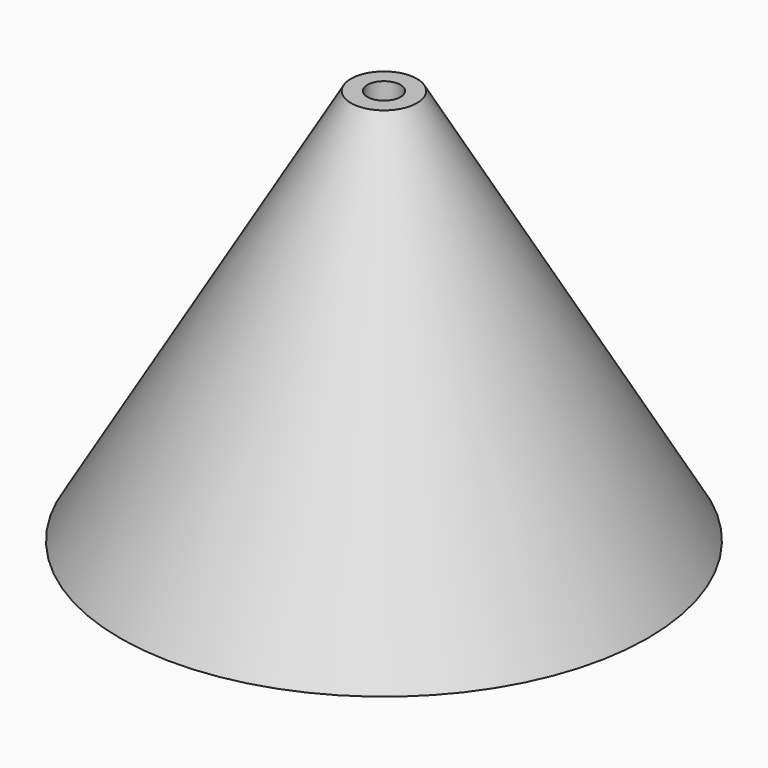
from build123d import *

# Parameters (mm, degrees)
F2_R     = 1.5875
F3_DEPTH = 38.1


with BuildPart() as f1:
    # F0 (on Front) → F1 (revolve)
    with BuildSketch(Plane.XZ):
        Polygon((0, 38.1), (0, 0), (25.4, 0), (3.175, 38.1), align=None)
    revolve(axis=Axis((0, 0, 19.05), (0, 0, 1)))

    # F2 (on face) → F3 (cut)
    with BuildSketch(Plane.XY.offset(38.1)):
        Circle(F2_R)
    extrude(amount=-F3_DEPTH, mode=Mode.SUBTRACT)


solid = f1.part
